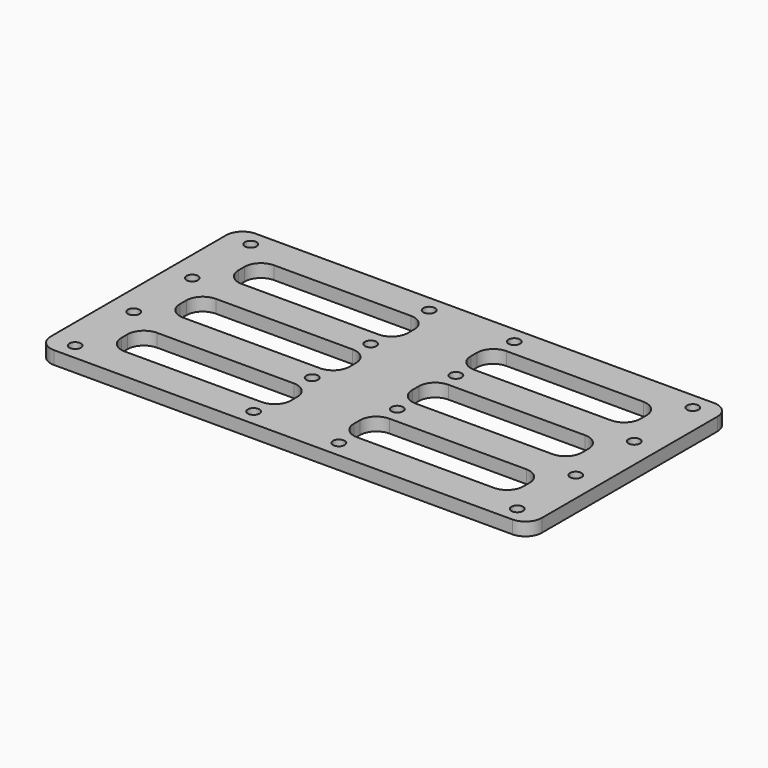
from build123d import *

# Parameters (mm, degrees)
F0_R     = 1.778
F1_DEPTH = 3.5
F2_DEPTH = 4


with BuildPart() as f1:
    # F0 (on Top) → F1 (new body)
    with BuildSketch(Plane.XY):
        with BuildLine():
            ThreePointArc((0, 5), (1.464466, 1.464466), (5, 0))
            Line((5, 0), (75, 0))
            Line((75, 0), (145, 0))
            ThreePointArc((145, 0), (148.535534, 1.464466), (150, 5))
            Line((150, 5), (150, 10))
            Line((150, 10), (150, 22.333333))
            Line((150, 22.333333), (150, 32.333333))
            Line((150, 32.333333), (150, 44.666667))
            Line((150, 44.666667), (150, 44.792384))
            Line((150, 44.792384), (150, 54.666667))
            Line((150, 54.666667), (150, 67))
            Line((150, 67), (150, 72))
            ThreePointArc((150, 72), (148.535534, 75.535534), (145, 77))
            Line((145, 77), (75, 77))
            Line((75, 77), (5, 77))
            ThreePointArc((5, 77), (1.464466, 75.535534), (0, 72))
            Line((0, 72), (0, 67))
            Line((0, 67), (0, 54.666667))
            Line((0, 54.666667), (0, 44.792384))
            Line((0, 44.792384), (0, 44.666667))
            Line((0, 44.666667), (0, 32.333333))
            Line((0, 32.333333), (0, 22.333333))
            Line((0, 22.333333), (0, 10))
            Line((0, 10), (0, 5))
        make_face()
        with Locations((7.5, 5)):
            Circle(F0_R, mode=Mode.SUBTRACT)
        with Locations((62, 5)):
            Circle(F0_R, mode=Mode.SUBTRACT)
        with BuildLine():
            Line((60.399714, 10), (18.611655, 10))
            ThreePointArc((18.611655, 10), (15.076121, 11.464466), (13.611655, 15))
            Line((13.611655, 15), (13.611655, 17.333333))
            ThreePointArc((13.611655, 17.333333), (15.076121, 20.868867), (18.611655, 22.333333))
            Line((18.611655, 22.333333), (60.399714, 22.333333))
            ThreePointArc((60.399714, 22.333333), (63.935248, 20.868867), (65.399714, 17.333333))
            Line((65.399714, 17.333333), (65.399714, 15))
            ThreePointArc((65.399714, 15), (63.935248, 11.464466), (60.399714, 10))
        make_face(mode=Mode.SUBTRACT)
        with Locations((7.5, 27.333333)):
            Circle(F0_R, mode=Mode.SUBTRACT)
        with Locations((62, 27.333333)):
            Circle(F0_R, mode=Mode.SUBTRACT)
        with Locations((88, 5)):
            Circle(F0_R, mode=Mode.SUBTRACT)
        with BuildLine():
            ThreePointArc((131.388345, 22.333333), (134.923879, 20.868867), (136.388345, 17.333333))
            Line((136.388345, 17.333333), (136.388345, 15))
            ThreePointArc((136.388345, 15), (134.923879, 11.464466), (131.388345, 10))
            Line((131.388345, 10), (89.600286, 10))
            ThreePointArc((89.600286, 10), (86.064752, 11.464466), (84.600286, 15))
            Line((84.600286, 15), (84.600286, 17.333333))
            ThreePointArc((84.600286, 17.333333), (86.064752, 20.868867), (89.600286, 22.333333))
            Line((89.600286, 22.333333), (131.388345, 22.333333))
        make_face(mode=Mode.SUBTRACT)
        with Locations((142.5, 5)):
            Circle(F0_R, mode=Mode.SUBTRACT)
        with Locations((88, 27.333333)):
            Circle(F0_R, mode=Mode.SUBTRACT)
        with Locations((142.5, 27.333333)):
            Circle(F0_R, mode=Mode.SUBTRACT)
        with Locations((7.5, 49.666667)):
            Circle(F0_R, mode=Mode.SUBTRACT)
        with BuildLine():
            Line((60.399714, 32.333333), (18.611655, 32.333333))
            ThreePointArc((18.611655, 32.333333), (15.076121, 33.797799), (13.611655, 37.333333))
            Line((13.611655, 37.333333), (13.611655, 39.792384))
            ThreePointArc((13.611655, 39.792384), (15.076121, 43.327917), (18.611655, 44.792384))
            Line((18.611655, 44.792384), (60.399714, 44.792384))
            ThreePointArc((60.399714, 44.792384), (63.935248, 43.327917), (65.399714, 39.792384))
            Line((65.399714, 39.792384), (65.399714, 37.333333))
            ThreePointArc((65.399714, 37.333333), (63.935248, 33.797799), (60.399714, 32.333333))
        make_face(mode=Mode.SUBTRACT)
        with Locations((62, 49.666667)):
            Circle(F0_R, mode=Mode.SUBTRACT)
        with Locations((7.5, 72)):
            Circle(F0_R, mode=Mode.SUBTRACT)
        with BuildLine():
            Line((60.399714, 54.666667), (18.611655, 54.666667))
            ThreePointArc((18.611655, 54.666667), (15.076121, 56.131133), (13.611655, 59.666667))
            Line((13.611655, 59.666667), (13.611655, 62))
            ThreePointArc((13.611655, 62), (15.076121, 65.535534), (18.611655, 67))
            Line((18.611655, 67), (60.399714, 67))
            ThreePointArc((60.399714, 67), (63.935248, 65.535534), (65.399714, 62))
            Line((65.399714, 62), (65.399714, 59.666667))
            ThreePointArc((65.399714, 59.666667), (63.935248, 56.131133), (60.399714, 54.666667))
        make_face(mode=Mode.SUBTRACT)
        with Locations((62, 72)):
            Circle(F0_R, mode=Mode.SUBTRACT)
        with BuildLine():
            Line((89.600286, 44.792384), (131.388345, 44.792384))
            ThreePointArc((131.388345, 44.792384), (134.923879, 43.327917), (136.388345, 39.792384))
            Line((136.388345, 39.792384), (136.388345, 37.333333))
            ThreePointArc((136.388345, 37.333333), (134.923879, 33.797799), (131.388345, 32.333333))
            Line((131.388345, 32.333333), (89.600286, 32.333333))
            ThreePointArc((89.600286, 32.333333), (86.064752, 33.797799), (84.600286, 37.333333))
            Line((84.600286, 37.333333), (84.600286, 39.792384))
            ThreePointArc((84.600286, 39.792384), (86.064752, 43.327917), (89.600286, 44.792384))
        make_face(mode=Mode.SUBTRACT)
        with Locations((88, 49.666667)):
            Circle(F0_R, mode=Mode.SUBTRACT)
        with Locations((142.5, 49.666667)):
            Circle(F0_R, mode=Mode.SUBTRACT)
        with BuildLine():
            ThreePointArc((131.388345, 67), (134.923879, 65.535534), (136.388345, 62))
            Line((136.388345, 62), (136.388345, 59.666667))
            ThreePointArc((136.388345, 59.666667), (134.923879, 56.131133), (131.388345, 54.666667))
            Line((131.388345, 54.666667), (89.600286, 54.666667))
            ThreePointArc((89.600286, 54.666667), (86.064752, 56.131133), (84.600286, 59.666667))
            Line((84.600286, 59.666667), (84.600286, 62))
            ThreePointArc((84.600286, 62), (86.064752, 65.535534), (89.600286, 67))
            Line((89.600286, 67), (131.388345, 67))
        make_face(mode=Mode.SUBTRACT)
        with Locations((88, 72)):
            Circle(F0_R, mode=Mode.SUBTRACT)
        with Locations((142.5, 72)):
            Circle(F0_R, mode=Mode.SUBTRACT)
    extrude(amount=F1_DEPTH)

    # F0 (on Top) → F2 (join)
    with BuildSketch(Plane.XY):
        with BuildLine():
            ThreePointArc((0, 5), (1.464466, 1.464466), (5, 0))
            Line((5, 0), (75, 0))
            Line((75, 0), (145, 0))
            ThreePointArc((145, 0), (148.535534, 1.464466), (150, 5))
            Line((150, 5), (150, 10))
            Line((150, 10), (150, 22.333333))
            Line((150, 22.333333), (150, 32.333333))
            Line((150, 32.333333), (150, 44.666667))
            Line((150, 44.666667), (150, 44.792384))
            Line((150, 44.792384), (150, 54.666667))
            Line((150, 54.666667), (150, 67))
            Line((150, 67), (150, 72))
            ThreePointArc((150, 72), (148.535534, 75.535534), (145, 77))
            Line((145, 77), (75, 77))
            Line((75, 77), (5, 77))
            ThreePointArc((5, 77), (1.464466, 75.535534), (0, 72))
            Line((0, 72), (0, 67))
            Line((0, 67), (0, 54.666667))
            Line((0, 54.666667), (0, 44.792384))
            Line((0, 44.792384), (0, 44.666667))
            Line((0, 44.666667), (0, 32.333333))
            Line((0, 32.333333), (0, 22.333333))
            Line((0, 22.333333), (0, 10))
            Line((0, 10), (0, 5))
        make_face()
        with Locations((7.5, 5)):
            Circle(F0_R, mode=Mode.SUBTRACT)
        with Locations((62, 5)):
            Circle(F0_R, mode=Mode.SUBTRACT)
        with BuildLine():
            Line((60.399714, 10), (18.611655, 10))
            ThreePointArc((18.611655, 10), (15.076121, 11.464466), (13.611655, 15))
            Line((13.611655, 15), (13.611655, 17.333333))
            ThreePointArc((13.611655, 17.333333), (15.076121, 20.868867), (18.611655, 22.333333))
            Line((18.611655, 22.333333), (60.399714, 22.333333))
            ThreePointArc((60.399714, 22.333333), (63.935248, 20.868867), (65.399714, 17.333333))
            Line((65.399714, 17.333333), (65.399714, 15))
            ThreePointArc((65.399714, 15), (63.935248, 11.464466), (60.399714, 10))
        make_face(mode=Mode.SUBTRACT)
        with Locations((7.5, 27.333333)):
            Circle(F0_R, mode=Mode.SUBTRACT)
        with Locations((62, 27.333333)):
            Circle(F0_R, mode=Mode.SUBTRACT)
        with Locations((88, 5)):
            Circle(F0_R, mode=Mode.SUBTRACT)
        with BuildLine():
            ThreePointArc((131.388345, 22.333333), (134.923879, 20.868867), (136.388345, 17.333333))
            Line((136.388345, 17.333333), (136.388345, 15))
            ThreePointArc((136.388345, 15), (134.923879, 11.464466), (131.388345, 10))
            Line((131.388345, 10), (89.600286, 10))
            ThreePointArc((89.600286, 10), (86.064752, 11.464466), (84.600286, 15))
            Line((84.600286, 15), (84.600286, 17.333333))
            ThreePointArc((84.600286, 17.333333), (86.064752, 20.868867), (89.600286, 22.333333))
            Line((89.600286, 22.333333), (131.388345, 22.333333))
        make_face(mode=Mode.SUBTRACT)
        with Locations((142.5, 5)):
            Circle(F0_R, mode=Mode.SUBTRACT)
        with Locations((88, 27.333333)):
            Circle(F0_R, mode=Mode.SUBTRACT)
        with Locations((142.5, 27.333333)):
            Circle(F0_R, mode=Mode.SUBTRACT)
        with Locations((7.5, 49.666667)):
            Circle(F0_R, mode=Mode.SUBTRACT)
        with BuildLine():
            Line((60.399714, 32.333333), (18.611655, 32.333333))
            ThreePointArc((18.611655, 32.333333), (15.076121, 33.797799), (13.611655, 37.333333))
            Line((13.611655, 37.333333), (13.611655, 39.792384))
            ThreePointArc((13.611655, 39.792384), (15.076121, 43.327917), (18.611655, 44.792384))
            Line((18.611655, 44.792384), (60.399714, 44.792384))
            ThreePointArc((60.399714, 44.792384), (63.935248, 43.327917), (65.399714, 39.792384))
            Line((65.399714, 39.792384), (65.399714, 37.333333))
            ThreePointArc((65.399714, 37.333333), (63.935248, 33.797799), (60.399714, 32.333333))
        make_face(mode=Mode.SUBTRACT)
        with Locations((62, 49.666667)):
            Circle(F0_R, mode=Mode.SUBTRACT)
        with Locations((7.5, 72)):
            Circle(F0_R, mode=Mode.SUBTRACT)
        with BuildLine():
            Line((60.399714, 54.666667), (18.611655, 54.666667))
            ThreePointArc((18.611655, 54.666667), (15.076121, 56.131133), (13.611655, 59.666667))
            Line((13.611655, 59.666667), (13.611655, 62))
            ThreePointArc((13.611655, 62), (15.076121, 65.535534), (18.611655, 67))
            Line((18.611655, 67), (60.399714, 67))
            ThreePointArc((60.399714, 67), (63.935248, 65.535534), (65.399714, 62))
            Line((65.399714, 62), (65.399714, 59.666667))
            ThreePointArc((65.399714, 59.666667), (63.935248, 56.131133), (60.399714, 54.666667))
        make_face(mode=Mode.SUBTRACT)
        with Locations((62, 72)):
            Circle(F0_R, mode=Mode.SUBTRACT)
        with BuildLine():
            Line((89.600286, 44.792384), (131.388345, 44.792384))
            ThreePointArc((131.388345, 44.792384), (134.923879, 43.327917), (136.388345, 39.792384))
            Line((136.388345, 39.792384), (136.388345, 37.333333))
            ThreePointArc((136.388345, 37.333333), (134.923879, 33.797799), (131.388345, 32.333333))
            Line((131.388345, 32.333333), (89.600286, 32.333333))
            ThreePointArc((89.600286, 32.333333), (86.064752, 33.797799), (84.600286, 37.333333))
            Line((84.600286, 37.333333), (84.600286, 39.792384))
            ThreePointArc((84.600286, 39.792384), (86.064752, 43.327917), (89.600286, 44.792384))
        make_face(mode=Mode.SUBTRACT)
        with Locations((88, 49.666667)):
            Circle(F0_R, mode=Mode.SUBTRACT)
        with Locations((142.5, 49.666667)):
            Circle(F0_R, mode=Mode.SUBTRACT)
        with BuildLine():
            ThreePointArc((131.388345, 67), (134.923879, 65.535534), (136.388345, 62))
            Line((136.388345, 62), (136.388345, 59.666667))
            ThreePointArc((136.388345, 59.666667), (134.923879, 56.131133), (131.388345, 54.666667))
            Line((131.388345, 54.666667), (89.600286, 54.666667))
            ThreePointArc((89.600286, 54.666667), (86.064752, 56.131133), (84.600286, 59.666667))
            Line((84.600286, 59.666667), (84.600286, 62))
            ThreePointArc((84.600286, 62), (86.064752, 65.535534), (89.600286, 67))
            Line((89.600286, 67), (131.388345, 67))
        make_face(mode=Mode.SUBTRACT)
        with Locations((88, 72)):
            Circle(F0_R, mode=Mode.SUBTRACT)
        with Locations((142.5, 72)):
            Circle(F0_R, mode=Mode.SUBTRACT)
    extrude(amount=F2_DEPTH)


solid = f1.part
